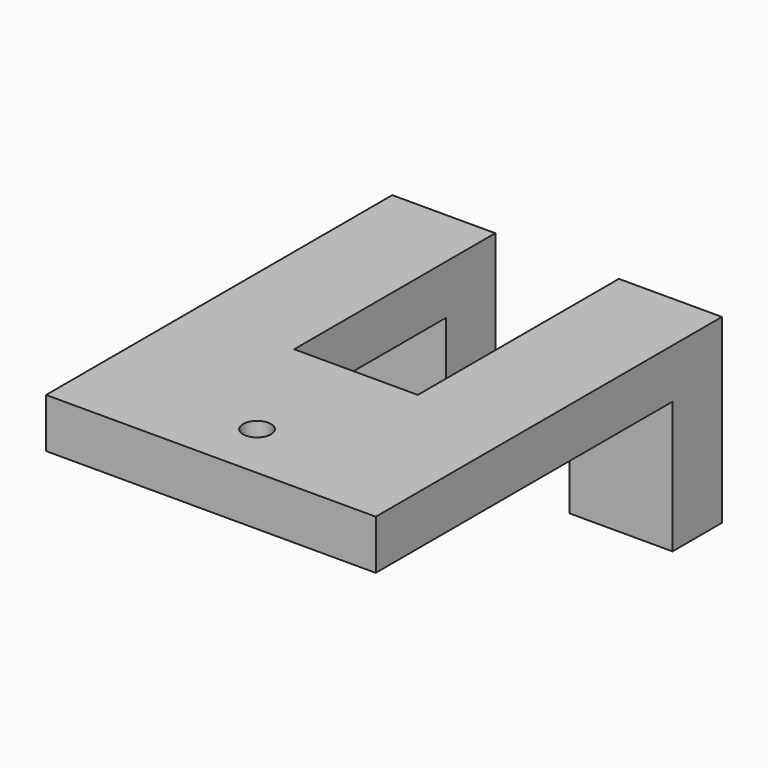
from build123d import *

# Parameters (mm, degrees)
BOX017_W          = 12.5
BOX017_H          = 7.5
BOX017_DEPTH      = 22
BOX020_W          = 12.5
BOX020_H          = 7.5
BOX020_DEPTH      = 22
CYLINDER001_R     = 1.7
CYLINDER001_DEPTH = 30
BOX019_W          = 15
BOX019_H          = 70
BOX019_DEPTH      = 6
BOX018_W          = 40
BOX018_H          = 51
BOX018_DEPTH      = 6


with BuildPart() as cube016:
    # Box017 → Box017 (new body)
    with BuildSketch(Plane(origin=(7.5, 0, 3), x_dir=(1, 0, 0), z_dir=(0, 0, 1))):
        with Locations((6.25, 3.75)):
            Rectangle(BOX017_W, BOX017_H)
    extrude(amount=BOX017_DEPTH)


with BuildPart() as cube019:
    # Box020 → Box020 (new body)
    with BuildSketch(Plane(origin=(-20, 0, 3), x_dir=(1, 0, 0), z_dir=(0, 0, 1))):
        with Locations((6.25, 3.75)):
            Rectangle(BOX020_W, BOX020_H)
    extrude(amount=BOX020_DEPTH)


with BuildPart() as cylinder001:
    # Cylinder001 → Cylinder001 (new body)
    with BuildSketch(Plane(origin=(0, 7, 0), x_dir=(1, 0, 0), z_dir=(0, 0, 1))):
        Circle(CYLINDER001_R)
    extrude(amount=CYLINDER001_DEPTH)


with BuildPart() as cube018:
    # Box019 → Box019 (new body)
    with BuildSketch(Plane(origin=(12.5, 22, 20), x_dir=(1, 0, 0), z_dir=(0, 0, 1))):
        with Locations((7.5, 35)):
            Rectangle(BOX019_W, BOX019_H)
    extrude(amount=BOX019_DEPTH)


with BuildPart() as fusion004004:
    # Box018 → Box018 (new body)
    with BuildSketch(Plane.XY.offset(20)):
        with Locations((20, 25.5)):
            Rectangle(BOX018_W, BOX018_H)
    extrude(amount=BOX018_DEPTH)

    # Cut004013: cut Cube018
    add(cube018.part, mode=Mode.SUBTRACT)


with BuildPart() as fusion004004_1:
    # Cut004013 placement: moved
    add(fusion004004.part.moved(Location((-20, 0, -1))))

    # Cut004014: cut Cylinder001
    add(cylinder001.part, mode=Mode.SUBTRACT)


with BuildPart() as fusion004004_2:
    # Cut004014 placement: moved
    add(fusion004004_1.part.moved(Location((0, -45, 0))))

    # Fusion004004: union Cube016, Cube019
    add(cube016.part)
    add(cube019.part)


solid = fusion004004_2.part
